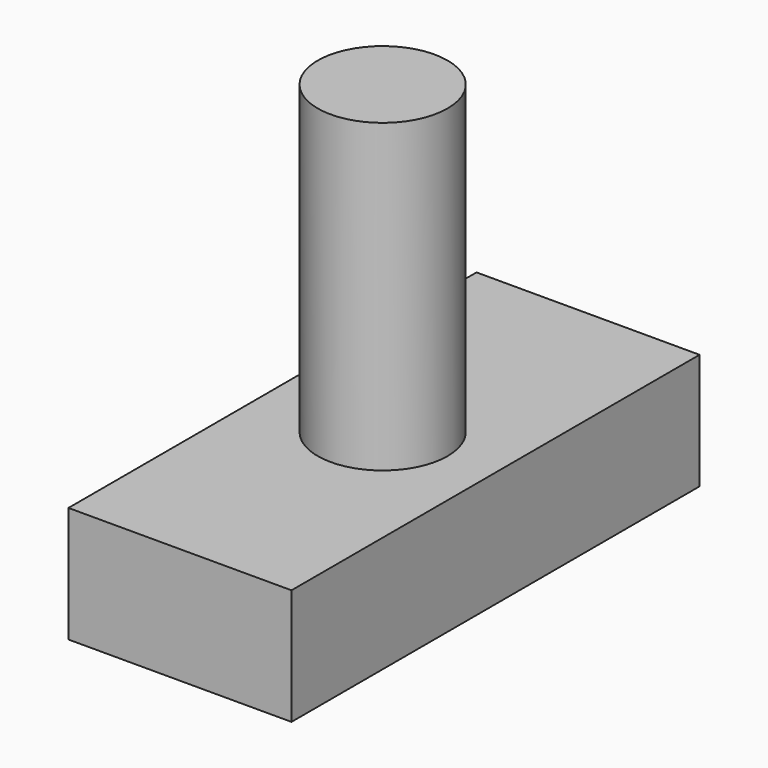
from build123d import *

# Parameters (mm, degrees)
F0_W     = 111.05685
F0_H     = 57.694792
F1_DEPTH = 254
F2_R     = 32.336648
F3_DEPTH = 152.4


with BuildPart() as f1:
    # F0 (on Front) → F1 (new body)
    with BuildSketch(Plane.XZ):
        Rectangle(F0_W, F0_H)
    extrude(amount=F1_DEPTH)

    # F2 (on face) → F3 (join)
    with BuildSketch(Plane.XY.offset(28.847396)):
        with Locations((0, -127.830639)):
            Circle(F2_R)
    extrude(amount=F3_DEPTH)


solid = f1.part
